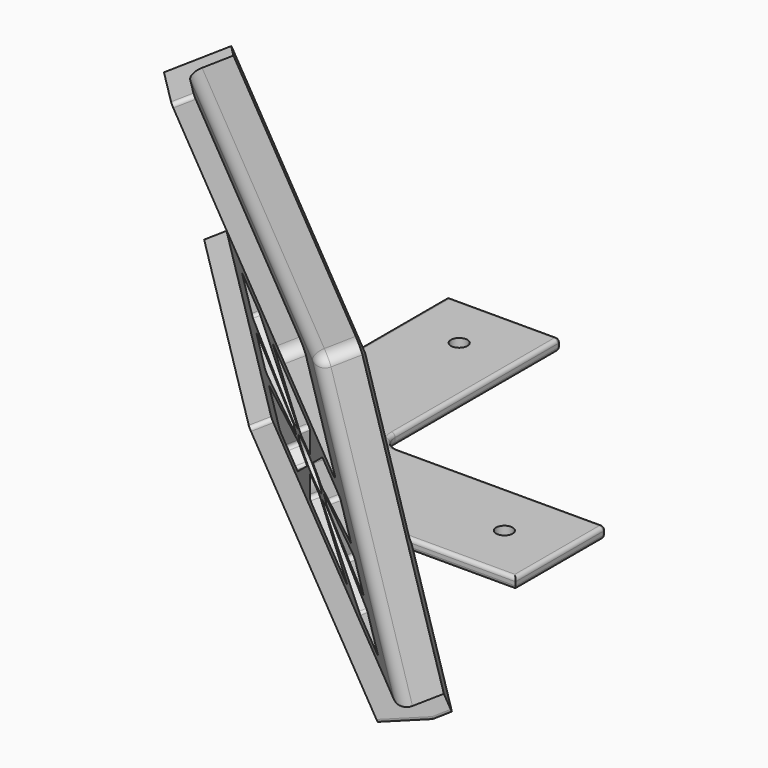
from build123d import *

# Parameters (mm, degrees)
PAD017_DEPTH      = 10
PAD017_DEPTH_BACK = 5
SKETCH030_R       = 6.5
PAD018_DEPTH      = 5
SKETCH031_R       = 2.2
PAD019_DEPTH      = 3
SKETCH032_W       = 218.005829
SKETCH032_H       = 209.033036
POCKET007_DEPTH   = 100
FILLET010_R       = 1
FILLET011_R       = 1
FILLET012_R       = 3


with BuildPart() as part:
    # Sketch029 (on DatumPlane) → Pad017 (new body, two sides)
    with BuildSketch(Plane(origin=(-5.44639, -5.45, -1.5), x_dir=(-0.707631, 0.706568, 0.004422), z_dir=(0.661642, 0.660415, 0.355081))) as pad017_sk:
        Polygon((40, 80), (40, 0), (-120, 0), (-120, 5), (35, 5), (35, 80), align=None)
    extrude(amount=PAD017_DEPTH)
    extrude(pad017_sk.sketch, amount=-PAD017_DEPTH_BACK)

    # Sketch030 (on DatumPlane) → Pad018 (join)
    with BuildSketch(Plane(origin=(-5.44639, -5.45, -1.5), x_dir=(-0.707631, 0.706568, 0.004422), z_dir=(0.661642, 0.660415, 0.355081))):
        Polygon((-35, 80), (-120, 80), (-120, 5), (35, 5), (35, 80), (25, 80), (25, 15), (-35, 15), align=None)
        with Locations((-77.5, 44)):
            Circle(SKETCH030_R, mode=Mode.SUBTRACT)
        with BuildLine():
            ThreePointArc((-74.793648, 52.583453), (-77.5, 53), (-80.206352, 52.583453))
            Line((-80.206352, 52.583453), (-86.643665, 73))
            Line((-86.643665, 73), (-68.356335, 73))
            Line((-74.793648, 52.583453), (-68.356335, 73))
        make_face(mode=Mode.SUBTRACT)
        with BuildLine():
            ThreePointArc((-68.916547, 41.293648), (-68.5, 44), (-68.916547, 46.706352))
            Line((-68.916547, 46.706352), (-42, 55.193107))
            Line((-42, 32.806893), (-42, 55.193107))
            Line((-68.916547, 41.293648), (-42, 32.806893))
        make_face(mode=Mode.SUBTRACT)
        with BuildLine():
            ThreePointArc((-80.206352, 35.416547), (-77.5, 35), (-74.793648, 35.416547))
            Line((-68.356335, 15), (-74.793648, 35.416547))
            Line((-86.643665, 15), (-68.356335, 15))
            Line((-80.206352, 35.416547), (-86.643665, 15))
        make_face(mode=Mode.SUBTRACT)
        with BuildLine():
            ThreePointArc((-86.083453, 46.706352), (-86.5, 44), (-86.083453, 41.293648))
            Line((-113, 32.806893), (-86.083453, 41.293648))
            Line((-113, 55.193107), (-113, 32.806893))
            Line((-86.083453, 46.706352), (-113, 55.193107))
        make_face(mode=Mode.SUBTRACT)
        with BuildLine():
            ThreePointArc((-69.516903, 48.155738), (-71.136039, 50.363961), (-73.344262, 51.983097))
            Line((-73.344262, 51.983097), (-62.403556, 73))
            Line((-62.403556, 73), (-42, 73))
            Line((-42, 73), (-42, 62.48013))
            Line((-42, 62.48013), (-69.516903, 48.155738))
        make_face(mode=Mode.SUBTRACT)
        with BuildLine():
            ThreePointArc((-73.344262, 36.016903), (-71.136039, 37.636039), (-69.516903, 39.844262))
            Line((-42, 25.51987), (-69.516903, 39.844262))
            Line((-42, 15), (-42, 25.51987))
            Line((-62.403556, 15), (-42, 15))
            Line((-73.344262, 36.016903), (-62.403556, 15))
        make_face(mode=Mode.SUBTRACT)
        with BuildLine():
            ThreePointArc((-85.483097, 39.844262), (-83.863961, 37.636039), (-81.655738, 36.016903))
            Line((-81.655738, 36.016903), (-92.596444, 15))
            Line((-92.596444, 15), (-113, 15))
            Line((-113, 15), (-113, 25.51987))
            Line((-85.483097, 39.844262), (-113, 25.51987))
        make_face(mode=Mode.SUBTRACT)
        with BuildLine():
            ThreePointArc((-81.655738, 51.983097), (-83.863961, 50.363961), (-85.483097, 48.155738))
            Line((-113, 62.48013), (-85.483097, 48.155738))
            Line((-113, 73), (-113, 62.48013))
            Line((-92.596444, 73), (-113, 73))
            Line((-81.655738, 51.983097), (-92.596444, 73))
        make_face(mode=Mode.SUBTRACT)
    extrude(amount=-PAD018_DEPTH)

    # Sketch031 → Pad019 (join)
    with BuildSketch(Plane.XY):
        with BuildLine():
            Line((0, 60), (-30, 60))
            Line((-30, 60), (-30, 15.857864))
            Line((-30, 15.857864), (15.857864, -30))
            Line((15.857864, -30), (60, -30))
            Line((60, -30), (60, 0))
            Line((5, 0), (60, 0))
            ThreePointArc((0, 5), (1.464466, 1.464466), (5, 0))
            Line((0, 5), (0, 60))
        make_face()
        with Locations((45, -15)):
            Circle(SKETCH031_R, mode=Mode.SUBTRACT)
        with Locations((-15, 45)):
            Circle(SKETCH031_R, mode=Mode.SUBTRACT)
    extrude(amount=PAD019_DEPTH)

    # Sketch032 → Pocket007 (cut)
    with BuildSketch(Plane.XY):
        with Locations((24.129853, -23.95504)):
            Rectangle(SKETCH032_W, SKETCH032_H)
    extrude(amount=-POCKET007_DEPTH, mode=Mode.SUBTRACT)

    # Fillet010
    fillet010_edges = [part.edges().sort_by_distance(p)[0] for p in [
        (37.791469, -78.010108, 45.846279),
        (42.233125, -79.797281, 40.893865),
        (43.575306, -78.421411, 35.833934),
        (41.750584, -73.951619, 30.920682),
        (54.704101, -76.339632, 11.225173),
        (7.126901, -52.658893, 55.83454),
        (18.900483, -40.589792, 11.44893),
        (37.551045, -59.212341, 11.332373),
        (14.484932, -45.116173, 28.095258),
        (32.786771, -73.314179, 46.437853),
        (31.91001, -72.137484, 45.883036),
        (36.616969, -77.138624, 46.413916),
        (30.150717, -68.460306, 42.32205),
        (31.427469, -66.291822, 35.909853),
        (30.085289, -67.667691, 40.969784),
        (32.211701, -66.34759, 34.552276),
        (35.869126, -68.078994, 30.957439),
        (37.043625, -68.950478, 30.389802),
        (40.873823, -72.774923, 30.365865),
        (43.509878, -77.628796, 34.481667),
        (8.933854, -50.806585, 49.022449),
        (4.518303, -55.332966, 65.668777),
        (16.291885, -43.263866, 21.283167),
        (41.448893, -79.741512, 42.251442),
        (18.956494, -69.74947, 65.578544),
        (33.338673, -55.006296, 11.358698),
        (50.491729, -72.133587, 11.251499),
        (69.142291, -90.756136, 11.134941),
        (64.726741, -95.282518, 27.781269),
        (57.368709, -102.825237, 55.520551),
        (54.760112, -105.49931, 65.354787),
        (36.109549, -86.876762, 65.471345),
        (59.175662, -100.972929, 48.70846),
        (40.321921, -91.082806, 65.44502),
        (23.168866, -73.955515, 65.552219),
    ]]
    fillet(fillet010_edges, radius=FILLET010_R)

    # Fillet011
    fillet011_edges = [part.edges().sort_by_distance(p)[0] for p in [
        (-44.628761, -9.772244, 72.508851),
        (-51.935019, 4.128353, 74.350594),
        (57.977749, -112.224637, 71.867605),
        (-2.170895, -52.166337, 72.243508),
        (-15, 60, 3),
        (-15, 60, 0),
        (0, 60, 1.5),
        (0, 32.5, 3),
        (0, 32.5, 0),
        (60, 0, 1.5),
        (60, -15, 3),
        (60, -15, 0),
        (45.878497, -30, 3),
        (42.687359, -30, 0),
        (84.669493, -85.047681, 0.760064),
        (-30, 43.271475, 3),
        (79.202384, -90.518257, 0),
    ]]
    fillet(fillet011_edges, radius=FILLET011_R)

    # Fillet012
    fillet012_edges = [part.edges().sort_by_distance(p)[0] for p in [
        (23.388089, -36.750113, 2.986173),
        (-40.752145, 8.4767, 38.384843),
        (-28.145113, 21.310998, 5.104315),
        (13.947065, -35.643814, 11.479887),
        (-28.510802, 6.750279, 11.74523),
    ]]
    fillet(fillet012_edges, radius=FILLET012_R)


solid = part.part
